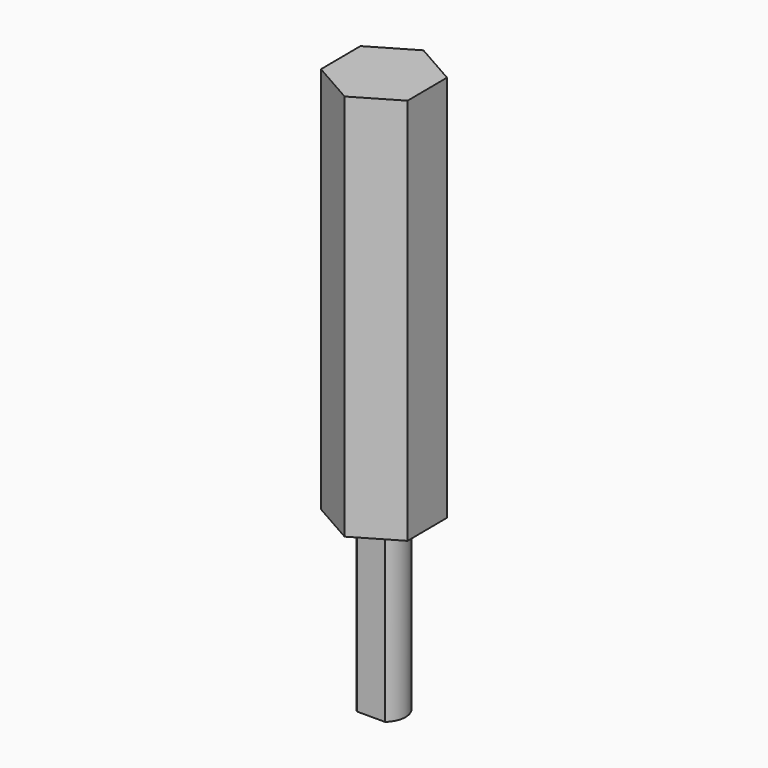
from build123d import *

# Parameters (mm, degrees)
F1_DEPTH = 57.15
F3_DEPTH = 25.4


with BuildPart() as f1:
    # F0 (on Top) → F1 (new body)
    with BuildSketch(Plane.XY):
        Polygon((0.051027, -7.332171), (6.37536, -3.621895), (6.324333, 3.710276), (-0.051027, 7.332171), (-6.37536, 3.621895), (-6.324333, -3.710276), align=None)
    extrude(amount=F1_DEPTH)

    # F2 (on Top) → F3 (join)
    with BuildSketch(Plane.XY):
        with BuildLine():
            Line((-2.073388, -2.404514), (2.073388, -2.404514))
            ThreePointArc((2.073388, -2.404514), (0, 3.175), (-2.073388, -2.404514))
        make_face()
    extrude(amount=-F3_DEPTH)


solid = f1.part
